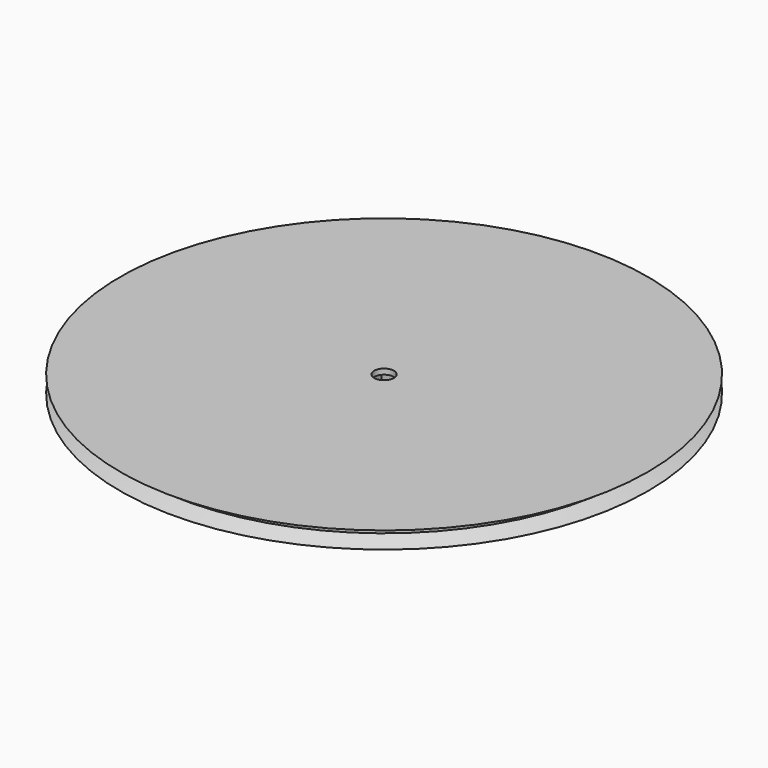
from build123d import *

# Parameters (mm, degrees)
BOX_W     = 13.4
BOX_H     = 13.4
BOX_DEPTH = 14


with BuildPart() as cube:
    # Box → Box (new body)
    with BuildSketch(Plane(origin=(-6.7, -6.7, 10), x_dir=(1, 0, 0), z_dir=(0, 0, 1))):
        with Locations((6.7, 6.7)):
            Rectangle(BOX_W, BOX_H)
    extrude(amount=BOX_DEPTH)


with BuildPart() as cut:
    # Sketch → Revolve (revolve)
    with BuildSketch(Plane.XZ):
        with BuildLine():
            Line((118.075, 18.37), (129.708369, 18.37))
            Line((129.708369, 18.37), (121.740684, 21.27))
            Line((121.740684, 21.27), (121.740684, 23.77))
            Line((121.740684, 23.77), (129.708369, 26.67))
            Line((129.708369, 26.67), (4.86, 26.67))
            Line((4.86, 26.67), (4.86, 10.010664))
            Line((4.86, 10.010664), (11.05, 10.010664))
            Line((11.05, 10.010664), (11.05, 18.37))
            add(Edge.make_bspline(
                [(118.075, 18.37), (77.146439, 24.763197), (51.362286, 25.0243), (11.05, 18.37)],
                knots=[0, 0, 0, 0, 1, 1, 1, 1], degree=3))
        make_face()
    revolve(axis=Axis((0, 0, 0), (0, 0, 1)))

    # Cut: cut Cube
    add(cube.part, mode=Mode.SUBTRACT)


solid = cut.part
